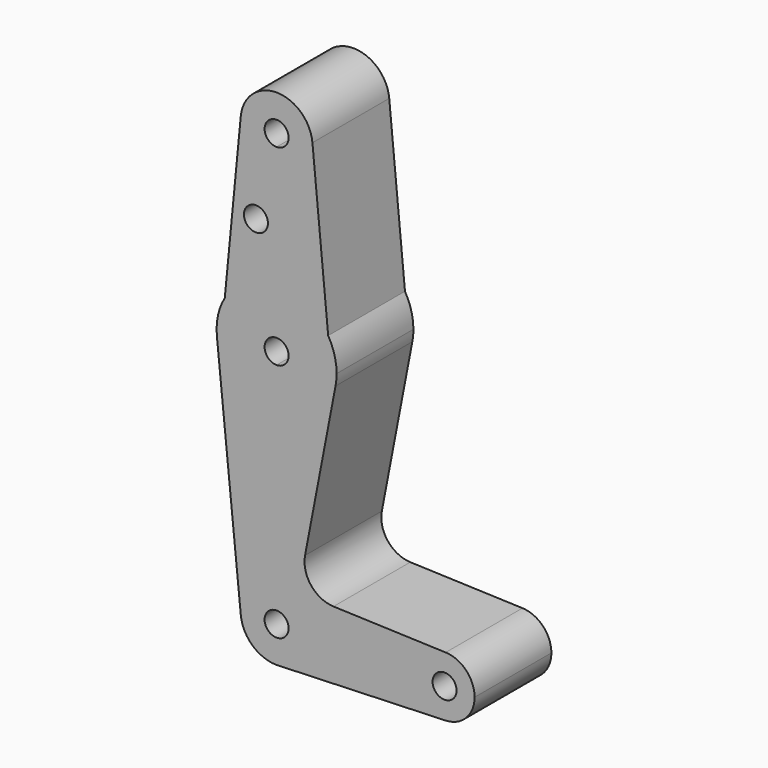
from build123d import *

# Parameters (mm, degrees)
F0_R     = 3.175
F1_DEPTH = 25.4
F2_DEPTH = 25.4


with BuildPart() as f1:
    # F0 (on Front) → F1 (new body)
    with BuildSketch(Plane.XZ):
        with BuildLine():
            ThreePointArc((-9.4807107481, 63.7111065744), (-7.0521101036, 56.3910315801), (0, 53.2686379311))
            ThreePointArc((0, 53.2686379311), (6.7351920908, 56.0584458403), (9.525, 62.7936379311))
            ThreePointArc((9.525, 62.7936379311), (9.5142081889, 63.2469232041), (9.4818572097, 63.6991813339))
            ThreePointArc((9.4818572097, 63.6991813339), (0.0059901113, 72.3186360476), (-9.4807107481, 63.7111065744))
        make_face()
        with BuildLine():
            ThreePointArc((3.175, 62.7936379311), (2.2450640303, 60.5485739009), (0, 59.6186379311))
            ThreePointArc((0, 59.6186379311), (-2.2450640303, 65.0387019614), (3.175, 62.7936379311))
        make_face(mode=Mode.SUBTRACT)
        with BuildLine():
            ThreePointArc((9.525, 62.7936379311), (6.7351920908, 56.0584458403), (0, 53.2686379311))
            Line((0, 53.2686379311), (0, 27.8686379311))
            ThreePointArc((0, 27.8686379311), (7.8489973512, 25.7925098263), (13.6450153015, 20.1071564294))
            Line((13.6450153015, 20.1071564294), (9.4818572097, 63.6991813339))
            ThreePointArc((9.4818572097, 63.6991813339), (9.5142081889, 63.2469232041), (9.525, 62.7936379311))
        make_face()
        with BuildLine():
            Line((0, 27.8686379311), (0, 53.2686379311))
            ThreePointArc((0, 53.2686379311), (-7.0521101036, 56.3910315801), (-9.4807107481, 63.7111065744))
            Line((-9.4807107481, 63.7111065744), (-13.7112371906, 19.9947378369))
            ThreePointArc((-13.7112371906, 19.9947378369), (-7.9056360907, 25.7601386849), (0, 27.8686379311))
        make_face()
        with Locations((-5.4705687799, 41.0979501903)):
            Circle(F0_R, mode=Mode.SUBTRACT)
        with BuildLine():
            ThreePointArc((13.6450153015, 20.1071564294), (7.8489973512, 25.7925098263), (0, 27.8686379311))
            Line((0, 27.8686379311), (0, 15.1686379311))
            ThreePointArc((0, 15.1686379311), (2.2450640303, 14.2387019614), (3.175, 11.9936379311))
            ThreePointArc((3.175, 11.9936379311), (2.2450640303, 9.7485739009), (0, 8.8186379311))
            Line((0, 8.8186379311), (0, -3.8813620689))
            ThreePointArc((0, -3.8813620689), (10.1137339683, -0.2427018083), (15.5911917947, 9.005266565))
            ThreePointArc((15.5911917947, 9.005266565), (15.8038886787, 10.4927289966), (15.875, 11.9936379311))
            ThreePointArc((15.875, 11.9936379311), (15.3073551424, 16.2008345684), (13.6450153015, 20.1071564294))
        make_face()
        with BuildLine():
            Line((0, 15.1686379311), (0, 27.8686379311))
            ThreePointArc((0, 27.8686379311), (-7.9056360907, 25.7601386849), (-13.7112371906, 19.9947378369))
            ThreePointArc((-13.7112371906, 19.9947378369), (-15.5127721175, 15.3655107389), (-15.7954255641, 10.4061379311))
            ThreePointArc((-15.7954255641, 10.4061379311), (-10.6492737428, 0.2204228329), (0, -3.8813620689))
            Line((0, -3.8813620689), (0, 8.8186379311))
            ThreePointArc((0, 8.8186379311), (-3.175, 11.9936379311), (0, 15.1686379311))
        make_face()
        with BuildLine():
            ThreePointArc((0, -3.8813620689), (-10.6492737428, 0.2204228329), (-15.7954255641, 10.4061379311))
            Line((-15.7954255641, 10.4061379311), (-9.4772553384, -52.4588620689))
            ThreePointArc((-9.4772553384, -52.4588620689), (-7.063929059, -45.1167978232), (0, -41.9813620689))
            Line((0, -41.9813620689), (0, -3.8813620689))
        make_face()
        with BuildLine():
            ThreePointArc((15.5911917947, 9.005266565), (10.1137339683, -0.2427018083), (0, -3.8813620689))
            Line((0, -3.8813620689), (0, -41.9813620689))
            ThreePointArc((0, -41.9813620689), (6.7351920908, -44.7711699781), (9.525, -51.5063620689))
            Line((9.525, -51.5063620689), (36.5125, -51.5063620689))
            ThreePointArc((36.5125, -51.5063620689), (38.9380895153, -45.7947292849), (44.7324052746, -43.5738874543))
            Line((44.7324052746, -43.5738874543), (15.0507731119, -42.5171870062))
            ThreePointArc((15.0507731119, -42.5171870062), (9.1165249373, -39.5271472478), (7.5255613841, -33.075444052))
            Line((7.5255613841, -33.075444052), (15.5911917947, 9.005266565))
        make_face()
        with BuildLine():
            ThreePointArc((0, -41.9813620689), (-7.063929059, -45.1167978232), (-9.4772553384, -52.4588620689))
            ThreePointArc((-9.4772553384, -52.4588620689), (-6.3895642457, -58.5702911278), (0, -61.0313620689))
            Line((0, -61.0313620689), (0.6773435479, -61.0072478548))
            ThreePointArc((0.6773435479, -61.0072478548), (6.9705567315, -57.9976611571), (9.525, -51.5063620689))
            Line((9.525, -51.5063620689), (3.175, -51.5063620689))
            ThreePointArc((3.175, -51.5063620689), (-2.2450640303, -53.7514260991), (0, -48.3313620689))
            Line((0, -48.3313620689), (0, -41.9813620689))
        make_face()
        with BuildLine():
            Line((0.6773435479, -61.0072478548), (0, -61.0313620689))
            ThreePointArc((0, -61.0313620689), (0.3388863295, -61.0253316064), (0.6773435479, -61.0072478548))
        make_face()
        with BuildLine():
            Line((36.5125, -51.5063620689), (9.525, -51.5063620689))
            ThreePointArc((9.525, -51.5063620689), (6.9705567315, -57.9976611571), (0.6773435479, -61.0072478548))
            Line((0.6773435479, -61.0072478548), (26.128586054, -60.1011541732))
            Line((26.128586054, -60.1011541732), (44.7324052746, -59.4388366834))
            ThreePointArc((44.7324052746, -59.4388366834), (38.9380895153, -57.2179948528), (36.5125, -51.5063620689))
        make_face()
        with BuildLine():
            ThreePointArc((44.7324052746, -43.5738874543), (38.9380895153, -45.7947292849), (36.5125, -51.5063620689))
            ThreePointArc((36.5125, -51.5063620689), (38.9380895153, -57.2179948528), (44.7324052746, -59.4388366834))
            ThreePointArc((44.7324052746, -59.4388366834), (50.1616327839, -57.0182725536), (52.3875, -51.5063620689))
            ThreePointArc((52.3875, -51.5063620689), (50.1616327839, -45.9944515841), (44.7324052746, -43.5738874543))
        make_face()
        with BuildLine():
            ThreePointArc((47.625, -51.5063620689), (44.45, -54.6813620689), (41.275, -51.5063620689))
            ThreePointArc((41.275, -51.5063620689), (44.45, -48.3313620689), (47.625, -51.5063620689))
        make_face(mode=Mode.SUBTRACT)
    extrude(amount=F1_DEPTH)

    # F0 (on Front) → F2 (join)
    with BuildSketch(Plane.XZ):
        with BuildLine():
            ThreePointArc((9.525, -51.5063620689), (6.7351920908, -44.7711699781), (0, -41.9813620689))
            Line((0, -41.9813620689), (0, -48.3313620689))
            ThreePointArc((0, -48.3313620689), (2.2450640303, -49.2612980386), (3.175, -51.5063620689))
            Line((3.175, -51.5063620689), (9.525, -51.5063620689))
        make_face()
    extrude(amount=F2_DEPTH)


solid = f1.part
